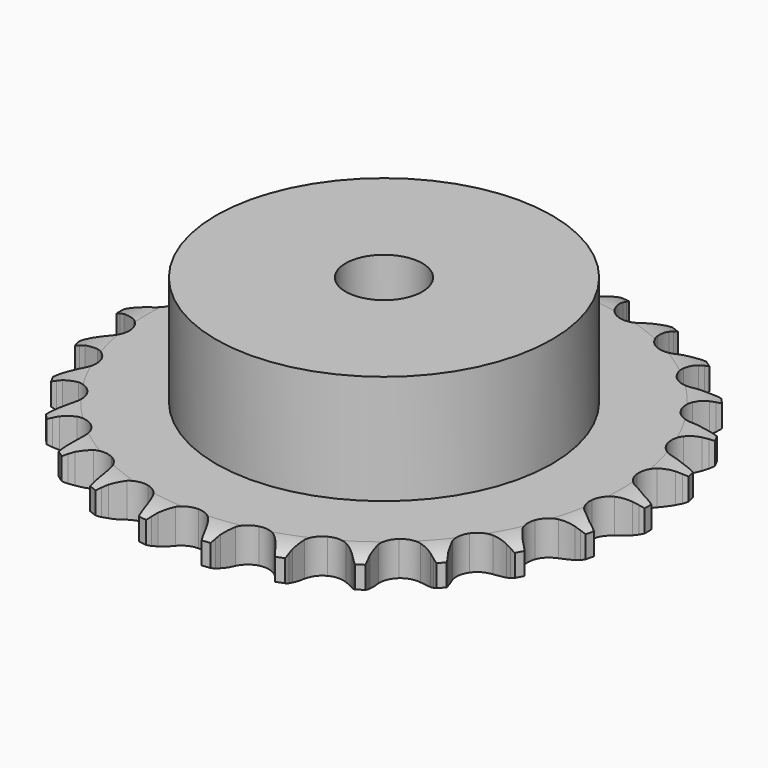
from build123d import *

# Parameters (mm, degrees)
PAD_DEPTH         = 7.2
SKETCH001_R       = 35
PAD001_DEPTH      = 30
SKETCH002_R       = 8
POCKET_DEPTH      = 0.0010001
POCKET_DEPTH_BACK = 30.001


with BuildPart() as part:
    # Sprocket → Pad (new body)
    with BuildSketch(Plane.XY):
        with BuildLine():
            ThreePointArc((-6.8075875082, 56.0655272429), (-5.9675283024, 54.9997813659), (-5.3502601589, 53.7912724571))
            Line((-5.3502601589, 53.7912724571), (-4.9361576235, 52.7379389149))
            ThreePointArc((-4.9361576235, 52.7379389149), (-4.2764029178, 51.3499417984), (-3.4316198607, 50.0661373532))
            ThreePointArc((-3.4316198607, 50.0661373532), (-1.9146902855, 48.8148217525), (0, 48.366684297))
            ThreePointArc((0, 48.366684297), (1.9146902855, 48.8148217525), (3.4316198607, 50.0661373532))
            ThreePointArc((3.4316198607, 50.0661373532), (4.2764029178, 51.3499417984), (4.9361576235, 52.7379389149))
            Line((4.9361576235, 52.7379389149), (5.3502601589, 53.7912724571))
            ThreePointArc((5.3502601589, 53.7912724571), (5.9675283024, 54.9997813659), (6.8075875082, 56.0655272429))
            ThreePointArc((6.8075875082, 56.0655272429), (7.3681864377, 54.8297106773), (7.6783027786, 53.5085969052))
            Line((7.6783027786, 53.5085969052), (7.8282930305, 52.386770098))
            ThreePointArc((7.8282930305, 52.386770098), (8.1367070115, 50.8812160195), (8.6497076948, 49.4325467798))
            ThreePointArc((8.6497076948, 49.4325467798), (9.8230986291, 47.8545671273), (11.5749051819, 46.9612363542))
            ThreePointArc((11.5749051819, 46.9612363542), (13.5412043604, 46.9381363721), (15.3135141432, 47.7900660067))
            Line((15.3135141432, 47.7900660067), (17.4137367386, 50.0241704166))
            ThreePointArc((17.4137367386, 50.0241704166), (17.7290550021, 50.4943087345), (18.0678854233, 50.9477947771))
            ThreePointArc((18.0678854233, 50.9477947771), (18.9564319888, 51.9734646776), (20.0271302833, 52.8072025895))
            ThreePointArc((20.0271302833, 52.8072025895), (20.2756889644, 51.473136502), (20.2606306681, 50.116196197))
            Line((20.2606306681, 50.116196197), (20.1377917483, 48.9910726212))
            ThreePointArc((20.1377917483, 48.9910726212), (20.0769411051, 47.4554589112), (20.2283456794, 45.9261162675))
            ThreePointArc((20.2283456794, 45.9261162675), (20.990004757, 44.1131790049), (22.4771189478, 42.8265720517))
            ThreePointArc((22.4771189478, 42.8265720517), (24.3807528582, 42.3335771189), (26.3054426461, 42.7366097337))
            Line((26.3054426461, 42.7366097337), (28.8792927708, 44.4031789642))
            ThreePointArc((28.8792927708, 44.4031789642), (29.2979599225, 44.7841953173), (29.735470861, 45.1434164524))
            ThreePointArc((29.735470861, 45.1434164524), (30.8436567517, 45.9266391381), (32.082769042, 46.4799152679))
            ThreePointArc((32.082769042, 46.4799152679), (32.0048421476, 45.1251307305), (31.6654843475, 43.8112243308))
            Line((31.6654843475, 43.8112243308), (31.2769552075, 42.7481920789))
            ThreePointArc((31.2769552075, 42.7481920789), (30.8503763583, 41.2717630246), (30.6313857401, 39.7506268124))
            ThreePointArc((30.6313857401, 39.7506268124), (30.9370481039, 37.8080932636), (32.0730442614, 36.2029830497))
            ThreePointArc((32.0730442614, 36.2029830497), (33.8033806202, 35.2687442399), (35.7685944389, 35.1994570442))
            Line((35.7685944389, 35.1994570442), (38.6664892792, 36.2016361494))
            ThreePointArc((38.6664892792, 36.2016361494), (39.164173906, 36.4713872522), (39.6749388163, 36.7154668531))
            ThreePointArc((39.6749388163, 36.7154668531), (40.9383602964, 37.2107242684), (42.27387388, 37.4513842185))
            ThreePointArc((42.27387388, 37.4513842185), (41.8739902381, 36.1546163841), (41.230055176, 34.9601033538))
            Line((41.230055176, 34.9601033538), (40.5984157172, 34.0209419964))
            ThreePointArc((40.5984157172, 34.0209419964), (39.8308998742, 32.6895022878), (39.2542410023, 31.2649754146))
            ThreePointArc((39.2542410023, 31.2649754146), (39.0861426666, 29.3057385687), (39.8050008232, 27.4754082654))
            ThreePointArc((39.8050008232, 27.4754082654), (41.2614787709, 26.1542201424), (43.1530055363, 25.6166398561))
            Line((43.1530055363, 25.6166398561), (46.2065299776, 25.8961858292))
            ThreePointArc((46.2065299776, 25.8961858292), (46.754308458, 26.0389947281), (47.3086435402, 26.1537477756))
            ThreePointArc((47.3086435402, 26.1537477756), (48.6538751455, 26.3322573597), (50.0081748275, 26.2463148487))
            ThreePointArc((50.0081748275, 26.2463148487), (49.3095742216, 25.0829271501), (48.3984850628, 24.0772282447))
            Line((48.3984850628, 24.0772282447), (47.5604438747, 23.3165184262))
            ThreePointArc((47.5604438747, 23.3165184262), (46.4965962688, 22.2074464995), (45.5957824607, 20.9623172892))
            ThreePointArc((45.5957824607, 20.9623172892), (44.9636926899, 19.1002408702), (45.2236354226, 17.1510626218))
            ThreePointArc((45.2236354226, 17.1510626218), (46.3216097548, 15.5197078368), (48.0295208068, 14.5450766723))
            Line((48.0295208068, 14.5450766723), (51.0612151077, 14.0857433174))
            ThreePointArc((51.0612151077, 14.0857433174), (51.6272525475, 14.0933104783), (52.1929418614, 14.0720679424))
            ThreePointArc((52.1929418614, 14.0720679424), (53.5418036209, 13.9234553672), (54.8361824262, 13.5159050613))
            ThreePointArc((54.8361824262, 13.5159050613), (53.8794649845, 12.5535093629), (52.7541709191, 11.7950721471))
            Line((52.7541709191, 11.7950721471), (51.7584319093, 11.2570235571))
            ThreePointArc((51.7584319093, 11.2570235571), (50.4600794965, 10.4347746414), (49.2874627764, 9.441405478))
            ThreePointArc((49.2874627764, 9.441405478), (48.2281163305, 7.7847065989), (48.0140367124, 5.8299595601))
            ThreePointArc((48.0140367124, 5.8299595601), (48.6896971519, 3.9832465237), (50.1147349082, 2.6282065015))
            Line((50.1147349082, 2.6282065015), (52.9484080156, 1.4566886035))
            ThreePointArc((52.9484080156, 1.4566886035), (53.4998083763, 1.3285742506), (54.0439761153, 1.1725706702))
            ThreePointArc((54.0439761153, 1.1725706702), (55.3180770863, 0.7054727584), (56.4773104238, 0))
            ThreePointArc((56.4773104238, 0), (55.3180770863, -0.7054727584), (54.0439761153, -1.1725706702))
            Line((54.0439761153, -1.1725706702), (52.9484080156, -1.4566886035))
            ThreePointArc((52.9484080156, -1.4566886035), (51.4910063188, -1.9443283899), (50.1147349082, -2.6282065015))
            ThreePointArc((50.1147349082, -2.6282065015), (48.6896971519, -3.9832465237), (48.0140367124, -5.8299595601))
            ThreePointArc((48.0140367124, -5.8299595601), (48.2281163305, -7.7847065989), (49.2874627764, -9.441405478))
            Line((49.2874627764, -9.441405478), (51.7584319093, -11.2570235571))
            ThreePointArc((51.7584319093, -11.2570235571), (52.2631498062, -11.5133738833), (52.7541709191, -11.7950721471))
            ThreePointArc((52.7541709191, -11.7950721471), (53.8794649845, -12.5535093629), (54.8361824262, -13.5159050613))
            ThreePointArc((54.8361824262, -13.5159050613), (53.5418036209, -13.9234553672), (52.1929418614, -14.0720679424))
            Line((52.1929418614, -14.0720679424), (51.0612151077, -14.0857433174))
            ThreePointArc((51.0612151077, -14.0857433174), (49.529463016, -14.2104341226), (48.0295208068, -14.5450766723))
            ThreePointArc((48.0295208068, -14.5450766723), (46.3216097548, -15.5197078368), (45.2236354226, -17.1510626218))
            ThreePointArc((45.2236354226, -17.1510626218), (44.9636926899, -19.1002408702), (45.5957824607, -20.9623172892))
            Line((45.5957824607, -20.9623172892), (47.5604438747, -23.3165184262))
            ThreePointArc((47.5604438747, -23.3165184262), (47.9891469381, -23.6862065766), (48.3984850628, -24.0772282447))
            ThreePointArc((48.3984850628, -24.0772282447), (49.3095742216, -25.0829271501), (50.0081748275, -26.2463148487))
            ThreePointArc((50.0081748275, -26.2463148487), (48.6538751455, -26.3322573597), (47.3086435402, -26.1537477756))
            Line((47.3086435402, -26.1537477756), (46.2065299776, -25.8961858292))
            ThreePointArc((46.2065299776, -25.8961858292), (44.6894473551, -25.6506810769), (43.1530055363, -25.6166398561))
            ThreePointArc((43.1530055363, -25.6166398561), (41.2614787709, -26.1542201424), (39.8050008232, -27.4754082654))
            ThreePointArc((39.8050008232, -27.4754082654), (39.0861426666, -29.3057385687), (39.2542410023, -31.2649754146))
            Line((39.2542410023, -31.2649754146), (40.5984157172, -34.0209419964))
            ThreePointArc((40.5984157172, -34.0209419964), (40.9261892835, -34.4824830395), (41.230055176, -34.9601033538))
            ThreePointArc((41.230055176, -34.9601033538), (41.8739902381, -36.1546163841), (42.27387388, -37.4513842185))
            ThreePointArc((42.27387388, -37.4513842185), (40.9383602964, -37.2107242684), (39.6749388163, -36.7154668531))
            Line((39.6749388163, -36.7154668531), (38.6664892792, -36.2016361494))
            ThreePointArc((38.6664892792, -36.2016361494), (37.2522434533, -35.6002036835), (35.7685944389, -35.1994570442))
            ThreePointArc((35.7685944389, -35.1994570442), (33.8033806202, -35.2687442399), (32.0730442614, -36.2029830497))
            ThreePointArc((32.0730442614, -36.2029830497), (30.9370481039, -37.8080932636), (30.6313857401, -39.7506268124))
            Line((30.6313857401, -39.7506268124), (31.2769552075, -42.7481920789))
            ThreePointArc((31.2769552075, -42.7481920789), (31.4847502683, -43.2747629269), (31.6654843475, -43.8112243308))
            ThreePointArc((31.6654843475, -43.8112243308), (32.0048421476, -45.1251307305), (32.082769042, -46.4799152679))
            ThreePointArc((32.082769042, -46.4799152679), (30.8436567517, -45.9266391381), (29.735470861, -45.1434164524))
            Line((29.735470861, -45.1434164524), (28.8792927708, -44.4031789642))
            ThreePointArc((28.8792927708, -44.4031789642), (27.6500745685, -43.4807718534), (26.3054426461, -42.7366097337))
            ThreePointArc((26.3054426461, -42.7366097337), (24.3807528582, -42.3335771189), (22.4771189478, -42.8265720517))
            ThreePointArc((22.4771189478, -42.8265720517), (20.990004757, -44.1131790049), (20.2283456794, -45.9261162675))
            Line((20.2283456794, -45.9261162675), (20.1377917483, -48.9910726212))
            ThreePointArc((20.1377917483, -48.9910726212), (20.21353201, -49.5520708903), (20.2606306681, -50.116196197))
            ThreePointArc((20.2606306681, -50.116196197), (20.2756889644, -51.473136502), (20.0271302833, -52.8072025895))
            ThreePointArc((20.0271302833, -52.8072025895), (18.9564319888, -51.9734646776), (18.0678854233, -50.9477947771))
            Line((18.0678854233, -50.9477947771), (17.4137367386, -50.0241704166))
            ThreePointArc((17.4137367386, -50.0241704166), (16.4409838537, -48.8343956094), (15.3135141432, -47.7900660067))
            ThreePointArc((15.3135141432, -47.7900660067), (13.5412043604, -46.9381363721), (11.5749051819, -46.9612363542))
            ThreePointArc((11.5749051819, -46.9612363542), (9.8230986291, -47.8545671273), (8.6497076948, -49.4325467798))
            Line((8.6497076948, -49.4325467798), (7.8282930305, -52.386770098))
            ThreePointArc((7.8282930305, -52.386770098), (7.7675767445, -52.9495926081), (7.6783027786, -53.5085969052))
            ThreePointArc((7.6783027786, -53.5085969052), (7.3681864377, -54.8297106773), (6.8075875082, -56.0655272429))
            ThreePointArc((6.8075875082, -56.0655272429), (5.9675283024, -54.9997813659), (5.3502601589, -53.7912724571))
            Line((5.3502601589, -53.7912724571), (4.9361576235, -52.7379389149))
            ThreePointArc((4.9361576235, -52.7379389149), (4.2764029178, -51.3499417984), (3.4316198607, -50.0661373532))
            ThreePointArc((3.4316198607, -50.0661373532), (1.9146902855, -48.8148217525), (0, -48.366684297))
            ThreePointArc((0, -48.366684297), (-1.9146902855, -48.8148217525), (-3.4316198607, -50.0661373532))
            Line((-3.4316198607, -50.0661373532), (-4.9361576235, -52.7379389149))
            ThreePointArc((-4.9361576235, -52.7379389149), (-5.1298018475, -53.2698764673), (-5.3502601589, -53.7912724571))
            ThreePointArc((-5.3502601589, -53.7912724571), (-5.9675283024, -54.9997813659), (-6.8075875082, -56.0655272429))
            ThreePointArc((-6.8075875082, -56.0655272429), (-7.3681864377, -54.8297106773), (-7.6783027786, -53.5085969052))
            Line((-7.6783027786, -53.5085969052), (-7.8282930305, -52.386770098))
            ThreePointArc((-7.8282930305, -52.386770098), (-8.1367070115, -50.8812160195), (-8.6497076948, -49.4325467798))
            ThreePointArc((-8.6497076948, -49.4325467798), (-9.8230986291, -47.8545671273), (-11.5749051819, -46.9612363542))
            ThreePointArc((-11.5749051819, -46.9612363542), (-13.5412043604, -46.9381363721), (-15.3135141432, -47.7900660067))
            Line((-15.3135141432, -47.7900660067), (-17.4137367386, -50.0241704166))
            ThreePointArc((-17.4137367386, -50.0241704166), (-17.7290550021, -50.4943087345), (-18.0678854233, -50.9477947771))
            ThreePointArc((-18.0678854233, -50.9477947771), (-18.9564319888, -51.9734646776), (-20.0271302833, -52.8072025895))
            ThreePointArc((-20.0271302833, -52.8072025895), (-20.2756889644, -51.473136502), (-20.2606306681, -50.116196197))
            Line((-20.2606306681, -50.116196197), (-20.1377917483, -48.9910726212))
            ThreePointArc((-20.1377917483, -48.9910726212), (-20.0769411051, -47.4554589112), (-20.2283456794, -45.9261162675))
            ThreePointArc((-20.2283456794, -45.9261162675), (-20.990004757, -44.1131790049), (-22.4771189478, -42.8265720517))
            ThreePointArc((-22.4771189478, -42.8265720517), (-24.3807528582, -42.3335771189), (-26.3054426461, -42.7366097337))
            Line((-26.3054426461, -42.7366097337), (-28.8792927708, -44.4031789642))
            ThreePointArc((-28.8792927708, -44.4031789642), (-29.2979599225, -44.7841953173), (-29.735470861, -45.1434164524))
            ThreePointArc((-29.735470861, -45.1434164524), (-30.8436567517, -45.9266391381), (-32.082769042, -46.4799152679))
            ThreePointArc((-32.082769042, -46.4799152679), (-32.0048421476, -45.1251307305), (-31.6654843475, -43.8112243308))
            Line((-31.6654843475, -43.8112243308), (-31.2769552075, -42.7481920789))
            ThreePointArc((-31.2769552075, -42.7481920789), (-30.8503763583, -41.2717630246), (-30.6313857401, -39.7506268124))
            ThreePointArc((-30.6313857401, -39.7506268124), (-30.9370481039, -37.8080932636), (-32.0730442614, -36.2029830497))
            ThreePointArc((-32.0730442614, -36.2029830497), (-33.8033806202, -35.2687442399), (-35.7685944389, -35.1994570442))
            Line((-35.7685944389, -35.1994570442), (-38.6664892792, -36.2016361494))
            ThreePointArc((-38.6664892792, -36.2016361494), (-39.164173906, -36.4713872522), (-39.6749388163, -36.7154668531))
            ThreePointArc((-39.6749388163, -36.7154668531), (-40.9383602964, -37.2107242684), (-42.27387388, -37.4513842185))
            ThreePointArc((-42.27387388, -37.4513842185), (-41.8739902381, -36.1546163841), (-41.230055176, -34.9601033538))
            Line((-41.230055176, -34.9601033538), (-40.5984157172, -34.0209419964))
            ThreePointArc((-40.5984157172, -34.0209419964), (-39.8308998742, -32.6895022878), (-39.2542410023, -31.2649754146))
            ThreePointArc((-39.2542410023, -31.2649754146), (-39.0861426666, -29.3057385687), (-39.8050008232, -27.4754082654))
            ThreePointArc((-39.8050008232, -27.4754082654), (-41.2614787709, -26.1542201424), (-43.1530055363, -25.6166398561))
            Line((-43.1530055363, -25.6166398561), (-46.2065299776, -25.8961858292))
            ThreePointArc((-46.2065299776, -25.8961858292), (-46.754308458, -26.0389947281), (-47.3086435402, -26.1537477756))
            ThreePointArc((-47.3086435402, -26.1537477756), (-48.6538751455, -26.3322573597), (-50.0081748275, -26.2463148487))
            ThreePointArc((-50.0081748275, -26.2463148487), (-49.3095742216, -25.0829271501), (-48.3984850628, -24.0772282447))
            Line((-48.3984850628, -24.0772282447), (-47.5604438747, -23.3165184262))
            ThreePointArc((-47.5604438747, -23.3165184262), (-46.4965962688, -22.2074464995), (-45.5957824607, -20.9623172892))
            ThreePointArc((-45.5957824607, -20.9623172892), (-44.9636926899, -19.1002408702), (-45.2236354226, -17.1510626218))
            ThreePointArc((-45.2236354226, -17.1510626218), (-46.3216097548, -15.5197078368), (-48.0295208068, -14.5450766723))
            Line((-48.0295208068, -14.5450766723), (-51.0612151077, -14.0857433174))
            ThreePointArc((-51.0612151077, -14.0857433174), (-51.6272525475, -14.0933104783), (-52.1929418614, -14.0720679424))
            ThreePointArc((-52.1929418614, -14.0720679424), (-53.5418036209, -13.9234553672), (-54.8361824262, -13.5159050613))
            ThreePointArc((-54.8361824262, -13.5159050613), (-53.8794649845, -12.5535093629), (-52.7541709191, -11.7950721471))
            Line((-52.7541709191, -11.7950721471), (-51.7584319093, -11.2570235571))
            ThreePointArc((-51.7584319093, -11.2570235571), (-50.4600794965, -10.4347746414), (-49.2874627764, -9.441405478))
            ThreePointArc((-49.2874627764, -9.441405478), (-48.2281163305, -7.7847065989), (-48.0140367124, -5.8299595601))
            ThreePointArc((-48.0140367124, -5.8299595601), (-48.6896971519, -3.9832465237), (-50.1147349082, -2.6282065015))
            Line((-50.1147349082, -2.6282065015), (-52.9484080156, -1.4566886035))
            ThreePointArc((-52.9484080156, -1.4566886035), (-53.4998083763, -1.3285742506), (-54.0439761153, -1.1725706702))
            ThreePointArc((-54.0439761153, -1.1725706702), (-55.3180770863, -0.7054727584), (-56.4773104238, 0))
            ThreePointArc((-56.4773104238, 0), (-55.3180770863, 0.7054727584), (-54.0439761153, 1.1725706702))
            Line((-54.0439761153, 1.1725706702), (-52.9484080156, 1.4566886035))
            ThreePointArc((-52.9484080156, 1.4566886035), (-51.4910063188, 1.9443283899), (-50.1147349082, 2.6282065015))
            ThreePointArc((-50.1147349082, 2.6282065015), (-48.6896971519, 3.9832465237), (-48.0140367124, 5.8299595601))
            ThreePointArc((-48.0140367124, 5.8299595601), (-48.2281163305, 7.7847065989), (-49.2874627764, 9.441405478))
            Line((-49.2874627764, 9.441405478), (-51.7584319093, 11.2570235571))
            ThreePointArc((-51.7584319093, 11.2570235571), (-52.2631498062, 11.5133738833), (-52.7541709191, 11.7950721471))
            ThreePointArc((-52.7541709191, 11.7950721471), (-53.8794649845, 12.5535093629), (-54.8361824262, 13.5159050613))
            ThreePointArc((-54.8361824262, 13.5159050613), (-53.5418036209, 13.9234553672), (-52.1929418614, 14.0720679424))
            Line((-52.1929418614, 14.0720679424), (-51.0612151077, 14.0857433174))
            ThreePointArc((-51.0612151077, 14.0857433174), (-49.529463016, 14.2104341226), (-48.0295208068, 14.5450766723))
            ThreePointArc((-48.0295208068, 14.5450766723), (-46.3216097548, 15.5197078368), (-45.2236354226, 17.1510626218))
            ThreePointArc((-45.2236354226, 17.1510626218), (-44.9636926899, 19.1002408702), (-45.5957824607, 20.9623172892))
            Line((-45.5957824607, 20.9623172892), (-47.5604438747, 23.3165184262))
            ThreePointArc((-47.5604438747, 23.3165184262), (-47.9891469381, 23.6862065766), (-48.3984850628, 24.0772282447))
            ThreePointArc((-48.3984850628, 24.0772282447), (-49.3095742216, 25.0829271501), (-50.0081748275, 26.2463148487))
            ThreePointArc((-50.0081748275, 26.2463148487), (-48.6538751455, 26.3322573597), (-47.3086435402, 26.1537477756))
            Line((-47.3086435402, 26.1537477756), (-46.2065299776, 25.8961858292))
            ThreePointArc((-46.2065299776, 25.8961858292), (-44.6894473551, 25.6506810769), (-43.1530055363, 25.6166398561))
            ThreePointArc((-43.1530055363, 25.6166398561), (-41.2614787709, 26.1542201424), (-39.8050008232, 27.4754082654))
            ThreePointArc((-39.8050008232, 27.4754082654), (-39.0861426666, 29.3057385687), (-39.2542410023, 31.2649754146))
            Line((-39.2542410023, 31.2649754146), (-40.5984157172, 34.0209419964))
            ThreePointArc((-40.5984157172, 34.0209419964), (-40.9261892835, 34.4824830395), (-41.230055176, 34.9601033538))
            ThreePointArc((-41.230055176, 34.9601033538), (-41.8739902381, 36.1546163841), (-42.27387388, 37.4513842185))
            ThreePointArc((-42.27387388, 37.4513842185), (-40.9383602964, 37.2107242684), (-39.6749388163, 36.7154668531))
            Line((-39.6749388163, 36.7154668531), (-38.6664892792, 36.2016361494))
            ThreePointArc((-38.6664892792, 36.2016361494), (-37.2522434533, 35.6002036835), (-35.7685944389, 35.1994570442))
            ThreePointArc((-35.7685944389, 35.1994570442), (-33.8033806202, 35.2687442399), (-32.0730442614, 36.2029830497))
            ThreePointArc((-32.0730442614, 36.2029830497), (-30.9370481039, 37.8080932636), (-30.6313857401, 39.7506268124))
            Line((-30.6313857401, 39.7506268124), (-31.2769552075, 42.7481920789))
            ThreePointArc((-31.2769552075, 42.7481920789), (-31.4847502683, 43.2747629269), (-31.6654843475, 43.8112243308))
            ThreePointArc((-31.6654843475, 43.8112243308), (-32.0048421476, 45.1251307305), (-32.082769042, 46.4799152679))
            ThreePointArc((-32.082769042, 46.4799152679), (-30.8436567517, 45.9266391381), (-29.735470861, 45.1434164524))
            Line((-29.735470861, 45.1434164524), (-28.8792927708, 44.4031789642))
            ThreePointArc((-28.8792927708, 44.4031789642), (-27.6500745685, 43.4807718534), (-26.3054426461, 42.7366097337))
            ThreePointArc((-26.3054426461, 42.7366097337), (-24.3807528582, 42.3335771189), (-22.4771189478, 42.8265720517))
            ThreePointArc((-22.4771189478, 42.8265720517), (-20.990004757, 44.1131790049), (-20.2283456794, 45.9261162675))
            Line((-20.2283456794, 45.9261162675), (-20.1377917483, 48.9910726212))
            ThreePointArc((-20.1377917483, 48.9910726212), (-20.21353201, 49.5520708903), (-20.2606306681, 50.116196197))
            ThreePointArc((-20.2606306681, 50.116196197), (-20.2756889644, 51.473136502), (-20.0271302833, 52.8072025895))
            ThreePointArc((-20.0271302833, 52.8072025895), (-18.9564319888, 51.9734646776), (-18.0678854233, 50.9477947771))
            Line((-18.0678854233, 50.9477947771), (-17.4137367386, 50.0241704166))
            ThreePointArc((-17.4137367386, 50.0241704166), (-16.4409838537, 48.8343956094), (-15.3135141432, 47.7900660067))
            ThreePointArc((-15.3135141432, 47.7900660067), (-13.5412043604, 46.9381363721), (-11.5749051819, 46.9612363542))
            ThreePointArc((-11.5749051819, 46.9612363542), (-9.8230986291, 47.8545671273), (-8.6497076948, 49.4325467798))
            Line((-8.6497076948, 49.4325467798), (-7.8282930305, 52.386770098))
            ThreePointArc((-7.8282930305, 52.386770098), (-7.7675767445, 52.9495926081), (-7.6783027786, 53.5085969052))
            ThreePointArc((-7.6783027786, 53.5085969052), (-7.3681864377, 54.8297106773), (-6.8075875082, 56.0655272429))
        make_face()
    extrude(amount=PAD_DEPTH)

    # Sketch → Groove (revolve, cut)
    with BuildSketch(Plane.XZ):
        with BuildLine():
            Line((49.3334313734, 0), (55, 0))
            Line((60.6665686266, 0), (55, 0))
            Line((60.6665686266, 7.2), (60.6665686266, 0))
            Line((55, 7.2), (60.6665686266, 7.2))
            Line((49.3334313734, 7.2), (55, 7.2))
            ThreePointArc((55, 5.9), (52.2403197441, 6.8708326483), (49.3334313734, 7.2))
            Line((55, 1.3), (55, 5.9))
            ThreePointArc((49.3334313734, 0), (52.2403197441, 0.3291673517), (55, 1.3))
        make_face()
    revolve(axis=Axis((0, 0, 0), (0, 0, 1)), mode=Mode.SUBTRACT)

    # Sketch001 → Pad001 (join)
    with BuildSketch(Plane.XY):
        Circle(SKETCH001_R)
    extrude(amount=PAD001_DEPTH)

    # Sketch002 → Pocket (cut, two sides)
    with BuildSketch(Plane.XY) as pocket_sk:
        Circle(SKETCH002_R)
    extrude(amount=-POCKET_DEPTH, mode=Mode.SUBTRACT)
    extrude(pocket_sk.sketch, amount=POCKET_DEPTH_BACK, mode=Mode.SUBTRACT)


solid = part.part
